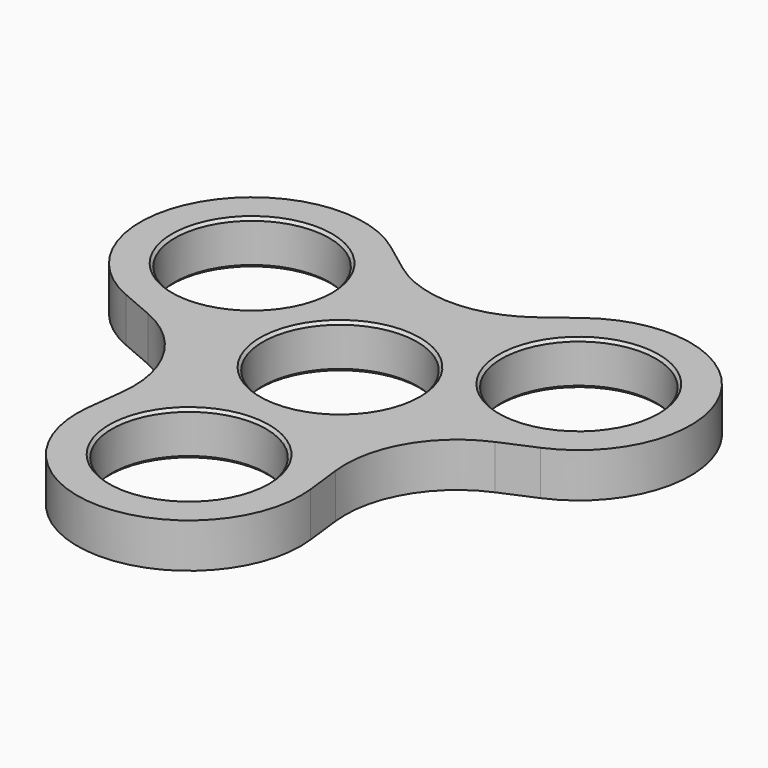
from build123d import *

# Parameters (mm, degrees)
F0_R     = 11.05
F1_DEPTH = 6.35
F2_SIZE  = 0.4


with BuildPart() as f1:
    # F0 (on Top) → F1 (new body)
    with BuildSketch(Plane.XY):
        with BuildLine():
            Line((-9.577975, 23.157779), (-13.804711, 26.316489))
            ThreePointArc((-13.804711, 26.316489), (-37.239092, 21.5), (-29.693104, -1.203014))
            Line((-29.693104, -1.203014), (-24.844213, -3.28412))
            ThreePointArc((-24.844213, -3.28412), (-17.298224, -9.987134), (-15.266238, -19.873659))
            Line((-15.266238, -19.873659), (-15.888393, -25.113475))
            ThreePointArc((-15.888393, -25.113475), (0, -43), (15.888393, -25.113475))
            Line((15.888393, -25.113475), (15.266238, -19.873659))
            ThreePointArc((15.266238, -19.873659), (17.298224, -9.987134), (24.844213, -3.28412))
            Line((24.844213, -3.28412), (29.693104, -1.203014))
            ThreePointArc((29.693104, -1.203014), (37.239092, 21.5), (13.804711, 26.316489))
            Line((13.804711, 26.316489), (9.577975, 23.157779))
            ThreePointArc((9.577975, 23.157779), (0, 19.974269), (-9.577975, 23.157779))
        make_face()
        with Locations((0, -27)):
            Circle(F0_R, mode=Mode.SUBTRACT)
        with Locations((-23.382686, 13.5)):
            Circle(F0_R, mode=Mode.SUBTRACT)
        Circle(F0_R, mode=Mode.SUBTRACT)
        with Locations((23.382686, 13.5)):
            Circle(F0_R, mode=Mode.SUBTRACT)
    extrude(amount=F1_DEPTH)

    # F2
    f2_edges = [f1.edges().sort_by_distance(p)[0] for p in [
        (-11.05, 0, 6.35),
        (-11.05, 0, 0),
        (-11.05, -27, 6.35),
        (-11.05, -27, 0),
        (-34.432686, 13.5, 6.35),
        (-34.432686, 13.5, 0),
        (12.332686, 13.5, 6.35),
        (12.332686, 13.5, 0),
    ]]
    chamfer(f2_edges, length=F2_SIZE)


solid = f1.part
